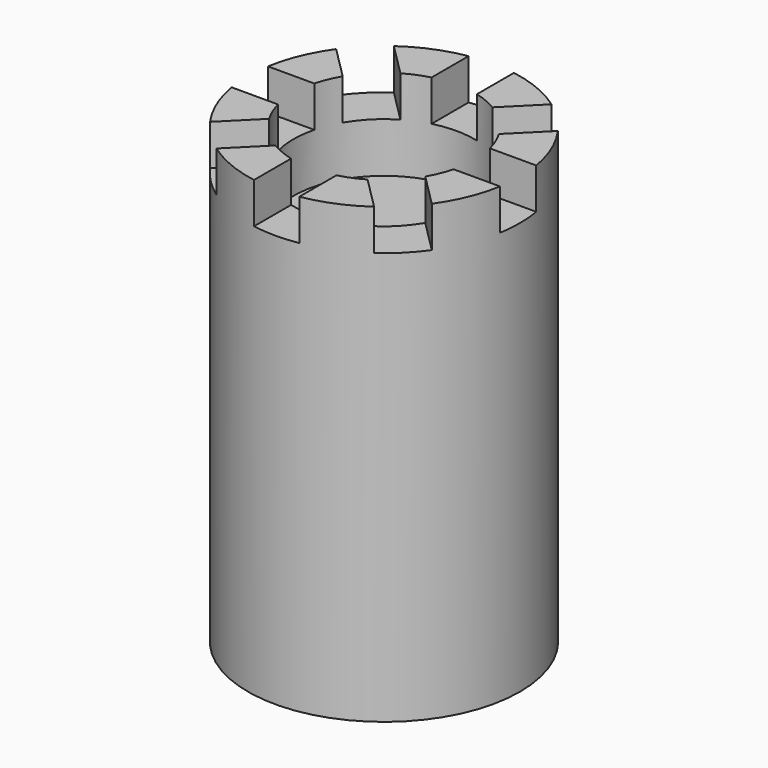
from build123d import *

# Parameters (mm, degrees)
BOX_W             = 10
BOX_H             = 20
BOX_DEPTH         = 10
ARRAY_COUNT       = 8
CYLINDER001_R     = 20
CYLINDER001_DEPTH = 20
CYLINDER_R        = 30
CYLINDER_DEPTH    = 100


with BuildPart() as array:
    # Box → Box (new body)
    with BuildSketch(Plane(origin=(-5, -34, 91), x_dir=(1, 0, 0), z_dir=(0, 0, 1))):
        with Locations((5, 10)):
            Rectangle(BOX_W, BOX_H)
    extrude(amount=BOX_DEPTH)

    # Array: Array ×8 about axis
    array_axis = Axis((0, 0, 0), (0, 0, 1))


with BuildPart() as array_1:
    add(array.part)
    for i in range(1, ARRAY_COUNT):
        add(array.part.rotate(array_axis, i * 360 / ARRAY_COUNT))


with BuildPart() as cilindre001:
    # Cylinder001 → Cylinder001 (new body)
    with BuildSketch(Plane.XY.offset(80)):
        Circle(CYLINDER001_R)
    extrude(amount=CYLINDER001_DEPTH)


with BuildPart() as torre:
    # Cylinder → Cylinder (new body)
    with BuildSketch(Plane.XY):
        Circle(CYLINDER_R)
    extrude(amount=CYLINDER_DEPTH)

    # Cut: cut Cilindre001
    add(cilindre001.part, mode=Mode.SUBTRACT)

    # Cut001: cut Array
    add(array_1.part, mode=Mode.SUBTRACT)


solid = torre.part
